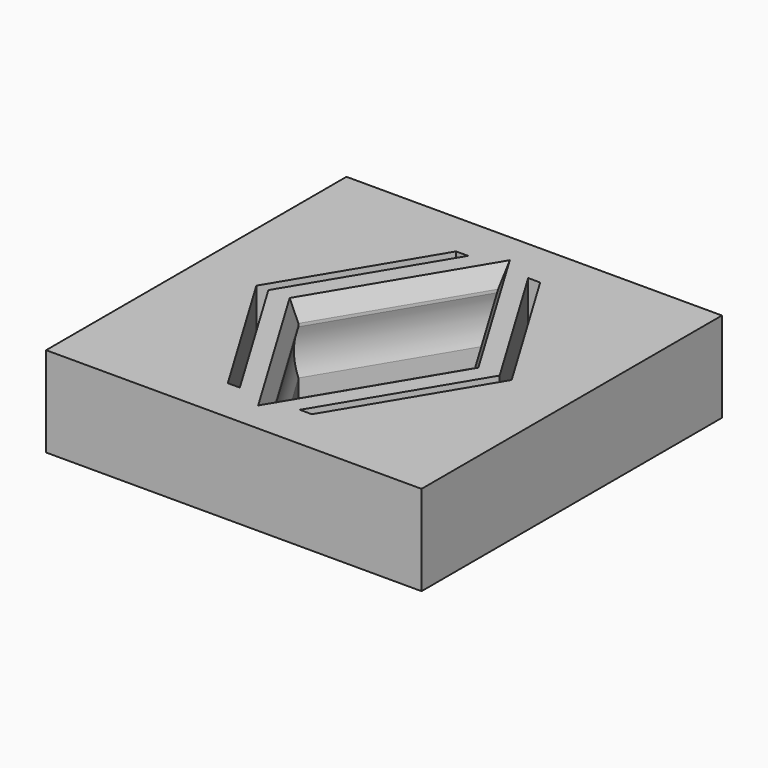
from build123d import *

# Parameters (mm, degrees)
SKETCH_W      = 25
SKETCH_H      = 25
PAD_DEPTH     = 6
CHAMFER_SIZE2 = 1.3
CHAMFER_SIZE  = 0.5
POCKET_DEPTH  = 0.3


with BuildPart() as part:
    # Sketch (on XY_Plane of Origin) → Pad (new body)
    with BuildSketch(Plane.XY):
        Rectangle(SKETCH_W, SKETCH_H)
        Polygon((0, 9.5), (-5.7, 0), (0, -9.5), (5.7, 0), align=None, mode=Mode.SUBTRACT)
        Polygon((-2, 9.5), (-7.7, 0), (-2, -9.5), (-2.8, -9.5), (-8.5, 0), (-2.8, 9.5), align=None, mode=Mode.SUBTRACT)
        Polygon((2, -9.5), (7.7, 0), (2, 9.5), (2.8, 9.5), (8.5, 0), (2.8, -9.5), align=None, mode=Mode.SUBTRACT)
    extrude(amount=PAD_DEPTH)

    # Sketch002 (on Face22 of Pad) → SubtractiveLoft section 0
    with BuildSketch(Plane.XY.offset(4.5)):
        Polygon((-5.7, 0), (0, -9.5), (5.7, 0), (0, 9.5), align=None)
    # Sketch001 (on Face22 of Pad) → SubtractiveLoft section 1
    with BuildSketch(Plane.XY.offset(3)):
        Polygon((-6, 0), (0, 10), (6, 0), (0, -10), align=None)
    # Sketch003 (on Face22 of Pad) → SubtractiveLoft section 2
    with BuildSketch(Plane.XY.offset(1.5)):
        Polygon((-5.7, 0), (0, 9.5), (5.7, 0), (0, -9.5), align=None)
    loft(mode=Mode.SUBTRACT)

    # Chamfer
    chamfer_edges = [part.edges().sort_by_distance(p)[0] for p in [
        (2.85, 4.75, 6),
        (-2.85, 4.75, 6),
        (-2.85, -4.75, 6),
        (2.85, -4.75, 6),
    ]]
    chamfer_side = part.faces().sort_by_distance((-12.146447, 0, 6))[0]
    chamfer(chamfer_edges, length=CHAMFER_SIZE, length2=CHAMFER_SIZE2, reference=chamfer_side)

    # Sketch004 (on Face4 of SubtractiveLoft) → Pocket (cut)
    with BuildSketch(Plane(origin=(0, 0, 0), x_dir=(1, 0, 0), z_dir=(0, 0, -1))):
        Polygon((-8.5, 0), (-2.8, -9.5), (2.8, -9.5), (8.5, 0), (2.8, 9.5), (-2.8, 9.5), align=None)
    extrude(amount=-POCKET_DEPTH, mode=Mode.SUBTRACT)


solid = part.part
